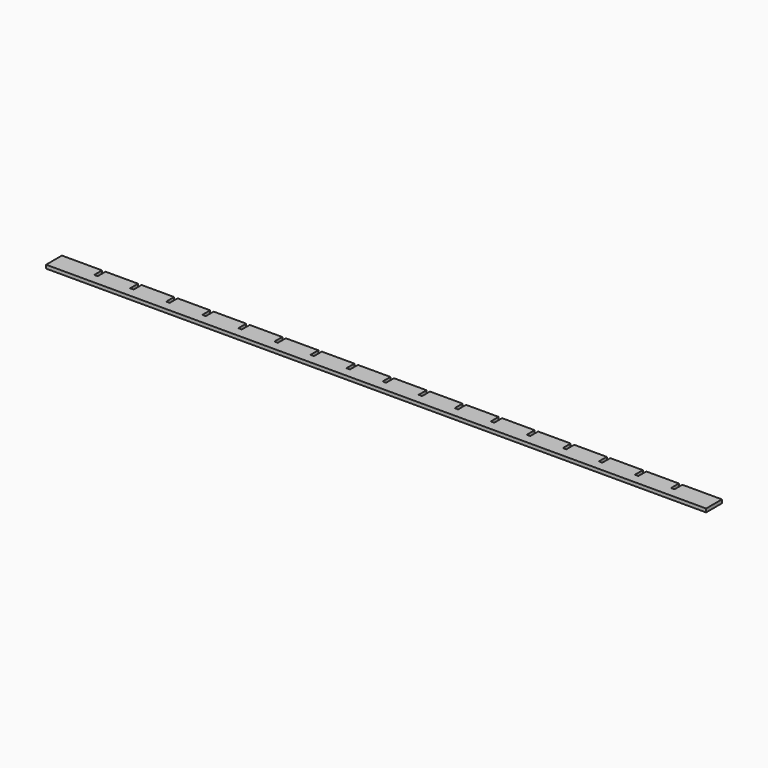
from build123d import *

# Parameters (mm, degrees)
PAD_DEPTH = 3


with BuildPart() as part:
    # Sketch → Pad (new body)
    with BuildSketch(Plane.XY):
        Polygon((0, 0), (0, 17), (34.5, 17), (34.5, 8.5), (37.5, 8.5), (37.5, 17), (65.5, 17), (65.5, 8.5), (68.5, 8.5), (68.5, 17), (96.5, 17), (96.5, 8.5), (99.5, 8.5), (99.5, 17), (127.5, 17), (127.5, 8.5), (130.5, 8.5), (130.5, 17), (158.5, 17), (158.5, 8.5), (161.5, 8.5), (161.5, 17), (189.5, 17), (189.5, 8.5), (192.5, 8.5), (192.5, 17), (220.5, 17), (220.5, 8.5), (223.5, 8.5), (223.5, 17), (251.5, 17), (251.5, 8.5), (254.5, 8.5), (254.5, 17), (282.5, 17), (282.5, 8.5), (285.5, 8.5), (285.5, 17), (313.5, 17), (313.5, 8.5), (316.5, 8.5), (316.5, 17), (344.5, 17), (344.5, 8.5), (347.5, 8.5), (347.5, 17), (375.5, 17), (375.5, 8.5), (378.5, 8.5), (378.5, 17), (406.5, 17), (406.5, 8.5), (409.5, 8.5), (409.5, 17), (437.5, 17), (437.5, 8.5), (440.5, 8.5), (440.5, 17), (468.5, 17), (468.5, 8.5), (471.5, 8.5), (471.5, 17), (499.5, 17), (499.5, 8.5), (502.5, 8.5), (502.5, 17), (530.5, 17), (530.5, 8.5), (533.5, 8.5), (533.5, 17), (567.5, 17), (567.5, 0), align=None)
    extrude(amount=PAD_DEPTH)


solid = part.part
